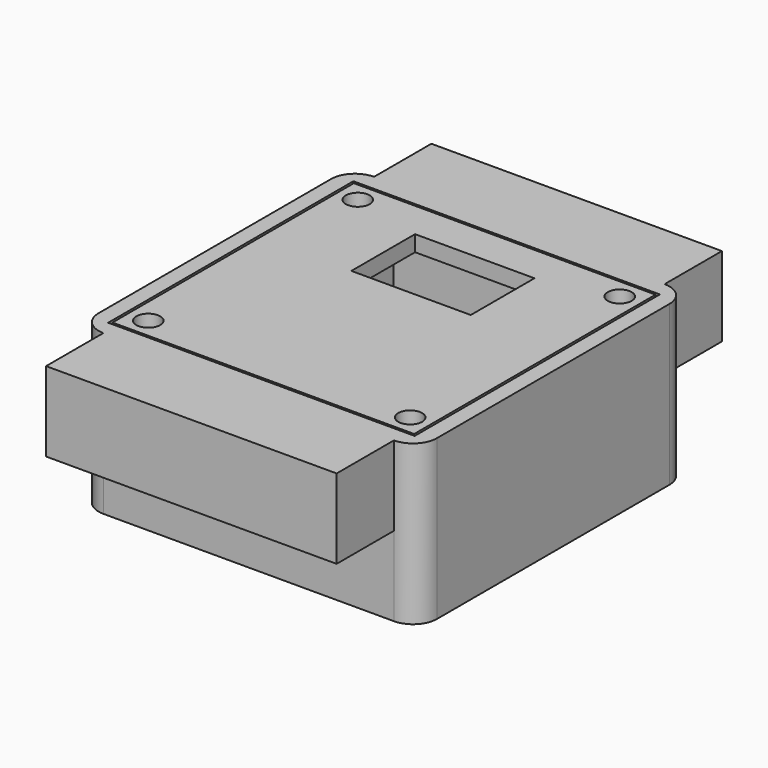
from build123d import *

# Parameters (mm, degrees)
F0_W      = 42.5
F0_H      = 42.5
F0_W_2    = 38.5
F0_H_2    = 38.5
F1_DEPTH  = 2
F2_DEPTH  = 15
F3_W      = 5
F3_H      = 5
F4_DEPTH  = 5
F5_R      = 1
F6_R      = 3
F7_R      = 1.25
F8_DEPTH  = 3
F9_DEPTH  = 5
F10_W     = 37.9
F10_H     = 37.9
F10_W_2   = 15
F10_H_2   = 10
F11_DEPTH = 2
F12_W     = 5
F12_H     = 5
F12_R     = 1.5
F13_DEPTH = 8.5
F14_DEPTH = 25
F15_W     = 36.5
F15_H     = 10
F16_DEPTH = 9
F17_W     = 36.5
F17_H     = 10
F18_DEPTH = 9


with BuildPart() as f1:
    # F0 (on Top) → F1 (new body)
    with BuildSketch(Plane.XY):
        Rectangle(F0_W, F0_H)
        Rectangle(F0_W_2, F0_H_2, mode=Mode.SUBTRACT)
        Rectangle(F0_W_2, F0_H_2)
        with BuildLine():
            ThreePointArc((14.5, -11), (12.7426406871, -15.2426406871), (8.5, -17))
            Line((8.5, -17), (-8.5, -17))
            ThreePointArc((-8.5, -17), (-12.7426406871, -15.2426406871), (-14.5, -11))
            Line((-14.5, -11), (-14.5, 11))
            ThreePointArc((-14.5, 11), (-12.7426406871, 15.2426406871), (-8.5, 17))
            Line((-8.5, 17), (8.5, 17))
            ThreePointArc((8.5, 17), (12.7426406871, 15.2426406871), (14.5, 11))
            Line((14.5, 11), (14.5, -11))
        make_face(mode=Mode.SUBTRACT)
    extrude(amount=F1_DEPTH)

    # F0 (on Top) → F2 (join)
    with BuildSketch(Plane.XY):
        Rectangle(F0_W, F0_H)
        Rectangle(F0_W_2, F0_H_2, mode=Mode.SUBTRACT)
    extrude(amount=F2_DEPTH)

    # F3 (on face) → F4 (join)
    with BuildSketch(Plane.XY.offset(2)):
        with Locations((16.75, 16.75)):
            Rectangle(F3_W, F3_H)
        with Locations((16.75, -16.75)):
            Rectangle(F3_W, F3_H)
        with Locations((-16.75, -16.75)):
            Rectangle(F3_W, F3_H)
        with Locations((-16.75, 16.75)):
            Rectangle(F3_W, F3_H)
    extrude(amount=F4_DEPTH)

    # F5
    f5_edges = [f1.edges().sort_by_distance(p)[0] for p in [
        (14.25, 14.25, 4.5),
        (14.25, -14.25, 4.5),
        (-14.25, -14.25, 4.5),
        (-14.25, 14.25, 4.5),
    ]]
    fillet(f5_edges, radius=F5_R)

    # F6
    f6_edges = [f1.edges().sort_by_distance(p)[0] for p in [
        (21.25, 21.25, 7.5),
        (21.25, -21.25, 7.5),
        (-21.25, -21.25, 7.5),
        (-21.25, 21.25, 7.5),
    ]]
    fillet(f6_edges, radius=F6_R)

    # F7 (on face) → F8 (cut)
    with BuildSketch(Plane.XY.offset(7)):
        with Locations((16.75, -17.25)):
            Circle(F7_R)
        with Locations((-16.75, -17.25)):
            Circle(F7_R)
        with Locations((16.75, 17.25)):
            Circle(F7_R)
        with Locations((-16.75, 17.25)):
            Circle(F7_R)
    extrude(amount=-F8_DEPTH, mode=Mode.SUBTRACT)

    # F9 (add): a face of the model
    f9_faces = [f1.faces().sort_by_distance(p)[0] for p in [
        (-20.648959236, 0, 15),
    ]]
    extrude(f9_faces, amount=F9_DEPTH)

    # F15 (on face) → F16 (join)
    with BuildSketch(Plane.XZ.offset(21.25)):
        with Locations((0, 15)):
            Rectangle(F15_W, F15_H)
    extrude(amount=F16_DEPTH)

    # F17 (on face) → F18 (join)
    with BuildSketch(Plane(origin=(0, 21.25, 0), x_dir=(-1, 0, 0), z_dir=(0, 1, 0))):
        with Locations((0, 15)):
            Rectangle(F17_W, F17_H)
    extrude(amount=F18_DEPTH)


with BuildPart() as f11:
    # F10 (on face) → F11 (new body)
    with BuildSketch(Plane.XY.offset(20)):
        Rectangle(F10_W, F10_H)
        with Locations((0, 9.25)):
            Rectangle(F10_W_2, F10_H_2, mode=Mode.SUBTRACT)
    extrude(amount=-F11_DEPTH)

    # F12 (on face) → F13 (join)
    with BuildSketch(Plane(origin=(0, 0, 18), x_dir=(1, 0, 0), z_dir=(0, 0, -1))):
        with Locations((-16.45, 16.45)):
            Rectangle(F12_W, F12_H)
        with Locations((-16.45, 16.45)):
            Circle(F12_R, mode=Mode.SUBTRACT)
        with Locations((16.45, 16.45)):
            Rectangle(F12_W, F12_H)
        with Locations((16.45, 16.45)):
            Circle(F12_R, mode=Mode.SUBTRACT)
        with Locations((-16.45, -16.45)):
            Rectangle(F12_W, F12_H)
        with Locations((-16.45, -16.45)):
            Circle(F12_R, mode=Mode.SUBTRACT)
        with Locations((16.45, -16.45)):
            Rectangle(F12_W, F12_H)
        with Locations((16.45, -16.45)):
            Circle(F12_R, mode=Mode.SUBTRACT)
    extrude(amount=F13_DEPTH)

    # F14 (cut): faces of the model
    f14_faces = [f11.faces().sort_by_distance(p)[0] for p in [
        (-16.45, -16.45, 18),
        (16.45, -16.45, 18),
        (16.45, 16.45, 18),
        (-16.45, 16.45, 18),
    ]]
    extrude(f14_faces, amount=-F14_DEPTH, mode=Mode.SUBTRACT)


solid = Compound([f1.part, f11.part])
